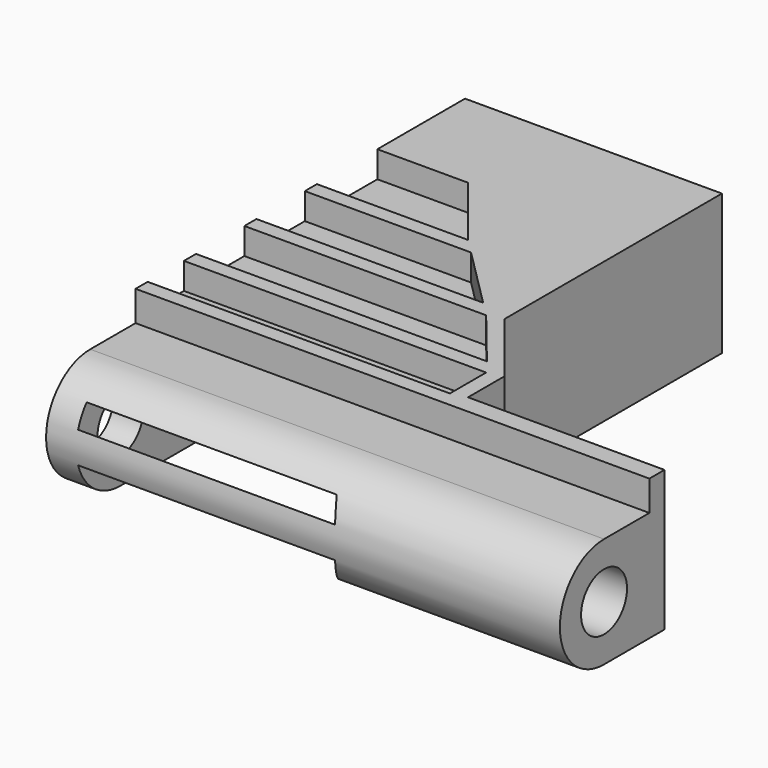
from build123d import *

# Parameters (mm, degrees)
PAD_DEPTH       = 68
SKETCH001_R     = 3.8
POCKET_DEPTH    = 68.001
POCKET001_DEPTH = 18.601
SKETCH003_W     = 6
SKETCH003_H     = 40
POCKET002_DEPTH = 3.5
POCKET003_DEPTH = 12
POCKET004_DEPTH = 14


with BuildPart() as part:
    # Sketch → Pad (new body)
    with BuildSketch(Plane.YZ):
        with BuildLine():
            ThreePointArc((0, 14.6), (-7.3, 7.3), (0, 0))
            Line((0, 0), (62, 0))
            Line((62, 0), (62, 18.6))
            Line((7.5, 18.6), (62, 18.6))
            Line((7.5, 14.6), (7.5, 18.6))
            Line((0, 14.6), (7.5, 14.6))
        make_face()
    extrude(amount=PAD_DEPTH)

    # Sketch001 (on Face8 of Pad) → Pocket (cut, through all)
    with BuildSketch(Plane.YZ.offset(68)):
        with Locations((0, 7.3)):
            Circle(SKETCH001_R)
    extrude(amount=-POCKET_DEPTH, mode=Mode.SUBTRACT)

    # Sketch002 (on Face8 of Pocket) → Pocket001 (cut, through all)
    with BuildSketch(Plane(origin=(0, 0, 18.6), x_dir=(0, -1, 0), z_dir=(0, 0, 1))):
        Polygon((-62, 34), (-26, 34), (-16, 42), (-10, 42), (-10, 68), (-62, 68), align=None)
    extrude(amount=-POCKET001_DEPTH, mode=Mode.SUBTRACT)

    # Sketch003 (on Face12 of Pocket001) → Pocket002 (cut)
    with BuildSketch(Plane(origin=(0, 0, 18.6), x_dir=(0, -1, 0), z_dir=(0, 0, 1))):
        with Locations((-12.5, 20)):
            Rectangle(SKETCH003_W, SKETCH003_H)
        Polygon((-25.5, 0), (-25.5, 32), (-17.5, 38.5), (-17.5, 0), align=None)
        Polygon((-35.5, 0), (-35.5, 22), (-27.5, 30), (-27.5, 0), align=None)
        Polygon((-47.5, 0), (-47.5, 12), (-37.5, 20), (-37.5, 0), align=None)
    extrude(amount=-POCKET002_DEPTH, mode=Mode.SUBTRACT)

    # Sketch004 (on Face3 of Pocket002) → Pocket003 (cut)
    with BuildSketch(Plane.YX):
        Polygon((-7, 38), (-7, 4), (46, 4), align=None)
    extrude(amount=-POCKET003_DEPTH, mode=Mode.SUBTRACT)

    # Sketch005 (on Face3 of Pocket003) → Pocket004 (cut)
    with BuildSketch(Plane.YX):
        Polygon((8, 32), (62, 32), (62, 5), (50, 5), align=None)
    extrude(amount=-POCKET004_DEPTH, mode=Mode.SUBTRACT)


solid = part.part
